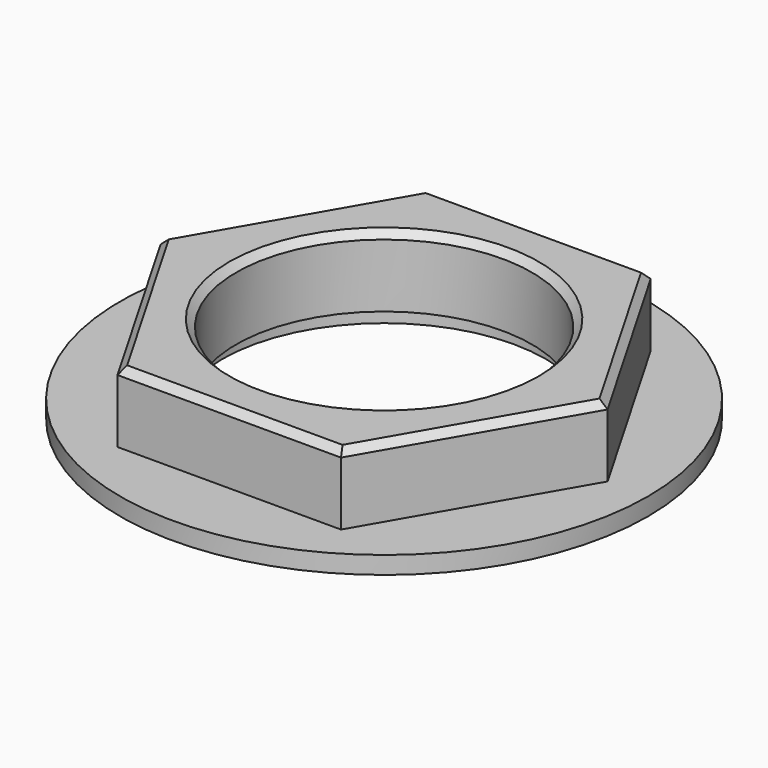
from build123d import *

# Parameters (mm, degrees)
SKETCH_R      = 4.2
PAD_DEPTH     = 2
SKETCH001_R   = 7.5
SKETCH001_R_2 = 4.6
PAD001_DEPTH  = 0.5
CHAMFER_SIZE  = 0.2


with BuildPart() as part:
    # Sketch → Pad (new body)
    with BuildSketch(Plane.XY):
        Polygon((6.350853, 0), (3.175426, 5.5), (-3.175426, 5.5), (-6.350853, 0), (-3.175426, -5.5), (3.175426, -5.5), align=None)
        Circle(SKETCH_R, mode=Mode.SUBTRACT)
    extrude(amount=PAD_DEPTH)

    # Sketch001 → Pad001 (join)
    with BuildSketch(Plane.XY):
        Circle(SKETCH001_R)
        Circle(SKETCH001_R_2, mode=Mode.SUBTRACT)
    extrude(amount=-PAD001_DEPTH)

    # Chamfer
    chamfer_edges = [part.edges().sort_by_distance(p)[0] for p in [
        (-4.2, 0, 2),
        (-4.76314, 2.75, 2),
        (-4.76314, -2.75, 2),
        (0, -5.5, 2),
        (4.76314, -2.75, 2),
        (4.76314, 2.75, 2),
        (0, 5.5, 2),
    ]]
    chamfer(chamfer_edges, length=CHAMFER_SIZE)


solid = part.part
